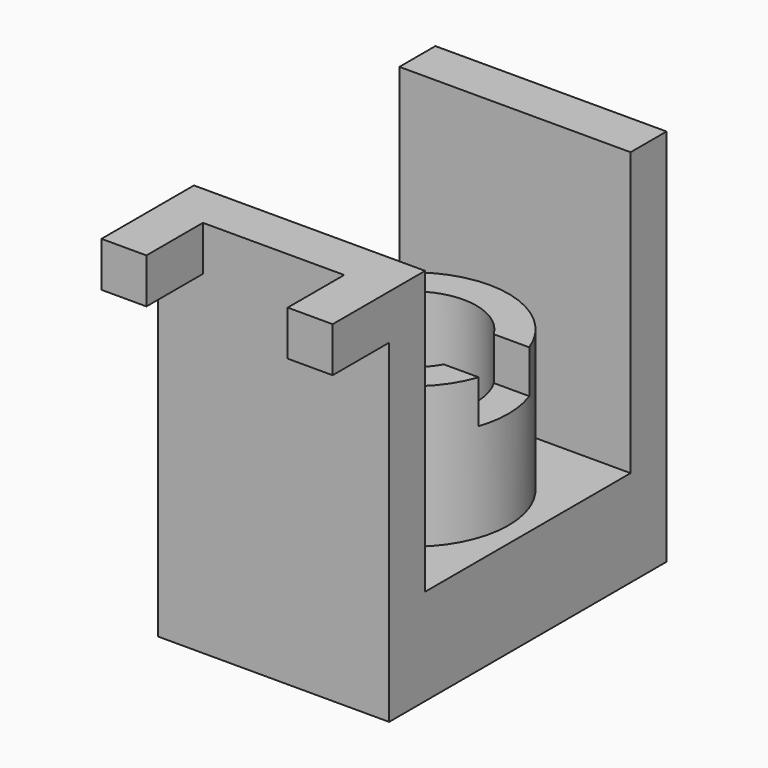
from build123d import *

# Parameters (mm, degrees)
F0_W      = 36
F0_H      = 54
F1_DEPTH  = 15
F2_W      = 36
F2_H      = 7
F3_DEPTH  = 44
F4_R      = 15
F5_DEPTH  = 22
F7_D      = 20
F8_W      = 5
F8_H      = 7
F9_DEPTH  = 9999
F10_W     = 7
F10_H     = 7
F11_DEPTH = 11


with BuildPart() as f1:
    # F0 (on Top) → F1 (new body)
    with BuildSketch(Plane.XY):
        with Locations((-55.876545, -46.366083)):
            Rectangle(F0_W, F0_H)
    extrude(amount=F1_DEPTH)

    # F2 (on face) → F3 (join)
    with BuildSketch(Plane.XY.offset(15)):
        with Locations((-55.876545, -22.866083)):
            Rectangle(F2_W, F2_H)
        with Locations((-55.876545, -69.866083)):
            Rectangle(F2_W, F2_H)
    extrude(amount=F3_DEPTH)

    # F4 (on face) → F5 (join)
    with BuildSketch(Plane.XY.offset(15)):
        with Locations((-55.876545, -46.366083)):
            Circle(F4_R)
    extrude(amount=F5_DEPTH)

    # F7 (through all)
    with Locations(Plane.XY.offset(37)):
        with Locations((-55.876545, -46.366083)):
            Hole(F7_D / 2)

    # F8 (on Right) → F9 (cut)
    with BuildSketch(Plane.YZ):
        with Locations((-48.684213, 33.802636)):
            Rectangle(F8_W, F8_H)
        with Locations((-43.684213, 33.802636)):
            Rectangle(F8_W, F8_H)
    extrude(amount=-F9_DEPTH, mode=Mode.SUBTRACT)

    # F10 (on face) → F11 (join)
    with BuildSketch(Plane.XZ.offset(73.366083)):
        with Locations((-70.376545, 55.5)):
            Rectangle(F10_W, F10_H)
        with Locations((-41.376545, 55.5)):
            Rectangle(F10_W, F10_H)
    extrude(amount=F11_DEPTH)


solid = f1.part
